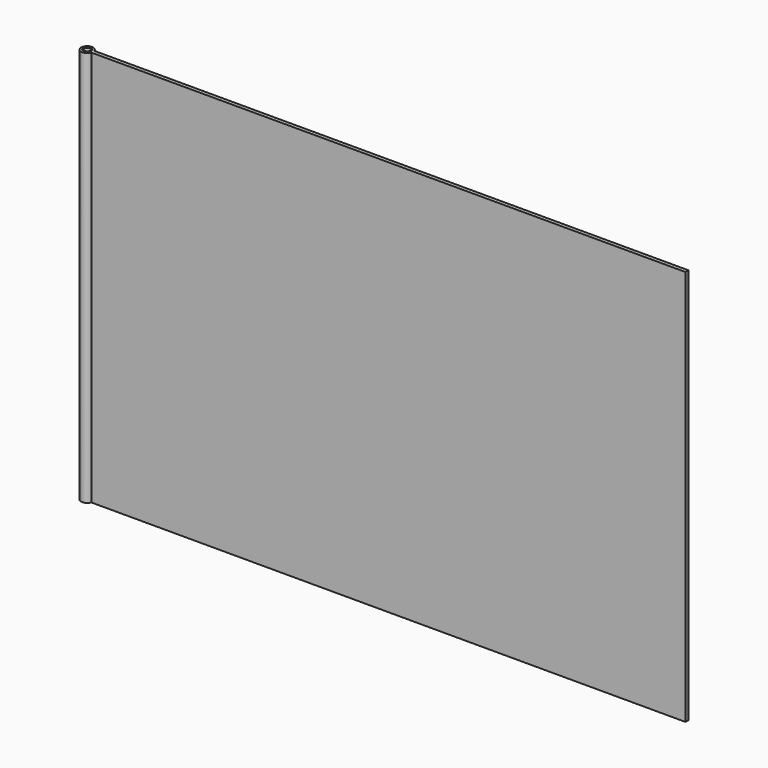
from build123d import *

# Parameters (mm, degrees)
F0_R     = 7.415285
F1_DEPTH = 1000
F2_R     = 10
F3_DEPTH = 1000


with BuildPart() as f1:
    # F0 (on Top) → F1 (new body)
    with BuildSketch(Plane.XY):
        Circle(F0_R)
    extrude(amount=F1_DEPTH)


with BuildPart() as f3:
    # F2 (on Top) → F3 (new body)
    with BuildSketch(Plane.XY):
        with BuildLine():
            Line((1514.227172, 4.75264), (14.227172, 4.75264))
            ThreePointArc((14.227172, 4.75264), (-15, 0), (14.227172, -4.75264))
            Line((14.227172, -4.75264), (1514.227172, -4.75264))
            Line((1514.227172, -4.75264), (1514.227172, 4.75264))
        make_face()
        Circle(F2_R, mode=Mode.SUBTRACT)
    extrude(amount=F3_DEPTH)


solid = Compound([f1.part, f3.part])
